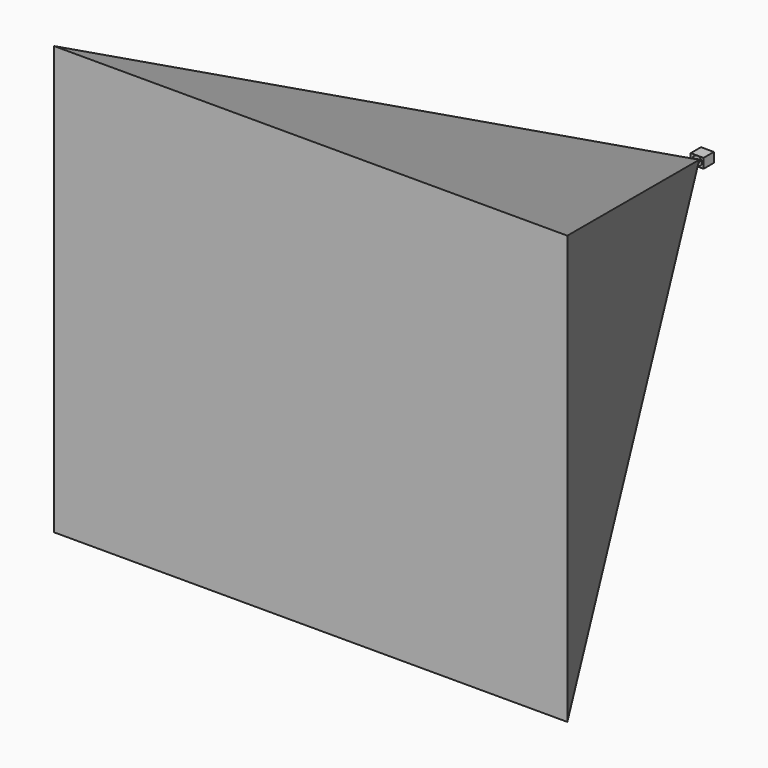
from build123d import *

# Parameters (mm, degrees)
F0_W      = 40
F0_H      = 30
F1_DEPTH  = 40
F3_R      = 14.5
F4_DEPTH  = 3
F5_W      = 8.5
F5_H      = 7.09
F6_DEPTH  = 3
F6_FACE_W = 8.5
F6_FACE_H = 7.09
F8_W      = 1593.75
F8_H      = 1329.375


with BuildPart() as f1:
    # F0 (on Front) → F1 (new body)
    with BuildSketch(Plane.XZ):
        Rectangle(F0_W, F0_H)
    extrude(amount=F1_DEPTH)

    # F3 (on face) → F4 (cut)
    with BuildSketch(Plane.XZ.offset(40)):
        Circle(F3_R)
    extrude(amount=-F4_DEPTH, mode=Mode.SUBTRACT)

    # F5 (on face) → F6 (join)
    with BuildSketch(Plane.XZ.offset(37)):
        Rectangle(F5_W, F5_H)
    extrude(amount=F6_DEPTH)

    # F6_face (on face) → F9 section 0
    with BuildSketch(Plane.XZ.offset(40)):
        Rectangle(F6_FACE_W, F6_FACE_H)
    # F8 (on offset) → F9 section 1
    with BuildSketch(Plane.XZ.offset(1540)):
        Rectangle(F8_W, F8_H)
    loft()

    # F10 (on face) → F11 (revolve)
    with BuildSketch(Plane.XZ):
        with BuildLine():
            ThreePointArc((0, -5), (5, 0), (0, 5))
            Line((0, 5), (0, -5))
        make_face()
    revolve(axis=Axis((0, 0, 0), (0, 0, -1)))


solid = f1.part
